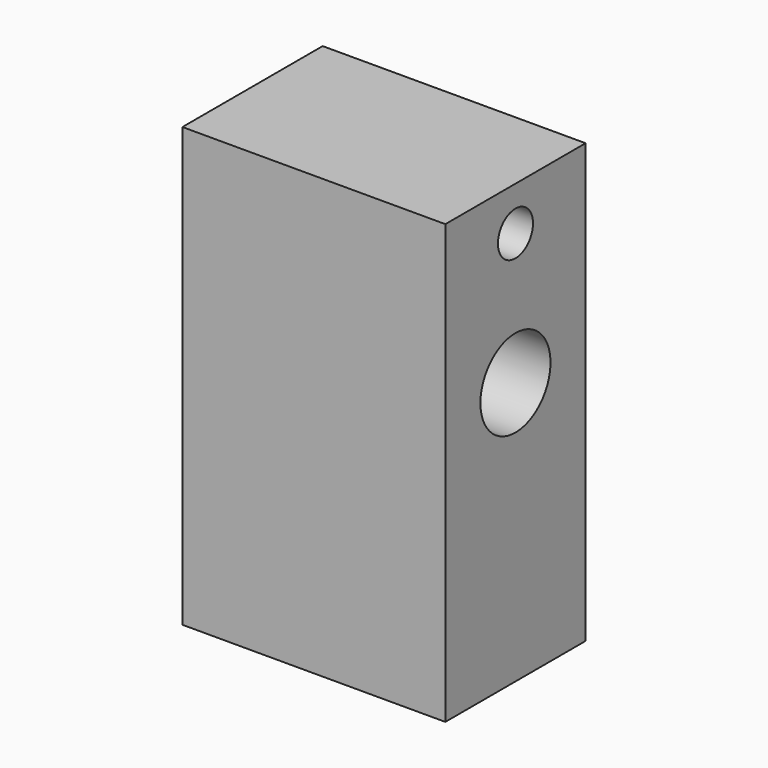
from build123d import *

# Parameters (mm, degrees)
F0_W     = 76.2
F0_H     = 50.8
F1_DEPTH = 127
F3_D     = 25.4
F5_D     = 12.7


with BuildPart() as f1:
    # F0 (on Top) → F1 (new body)
    with BuildSketch(Plane.XY):
        Rectangle(F0_W, F0_H)
    extrude(amount=F1_DEPTH)

    # F3 (through all)
    with Locations(Plane.YZ.offset(38.1)):
        with Locations((0, 76.2)):
            Hole(F3_D / 2)

    # F5 (through all)
    with Locations(Plane.YZ.offset(38.1)):
        with Locations((0, 114.3)):
            Hole(F5_D / 2)


solid = f1.part
